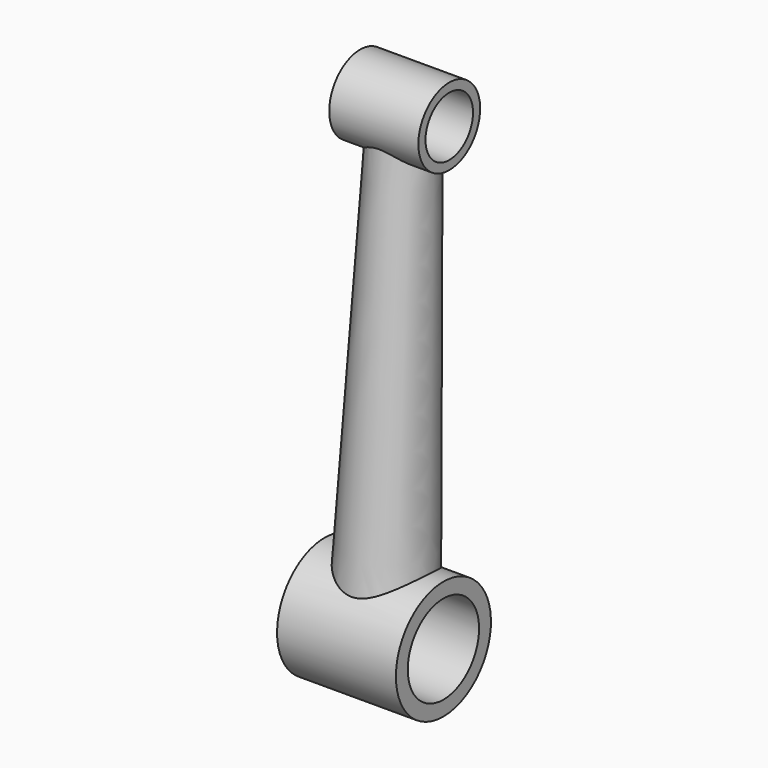
from build123d import *

# Parameters (mm, degrees)
CYLINDER006_R          = 10
CYLINDER006_DEPTH      = 100
CYLINDER007_R          = 15
CYLINDER007_DEPTH      = 100
CYLINDER004_R          = 13
CYLINDER004_DEPTH      = 30
CYLINDER005_R          = 20
CYLINDER005_DEPTH      = 40
CUT004_PLACEMENT_ANGLE = 356.673392


with BuildPart() as cylinder006:
    # Cylinder006 → Cylinder006 (new body)
    with BuildSketch(Plane(origin=(50, 0, 150), x_dir=(0, 0, 1), z_dir=(-1, 0, 0))):
        Circle(CYLINDER006_R)
    extrude(amount=CYLINDER006_DEPTH)


with BuildPart() as compound002:
    # Cylinder007 → Cylinder007 (new body)
    with BuildSketch(Plane.ZY.offset(-50)):
        Circle(CYLINDER007_R)
    extrude(amount=CYLINDER007_DEPTH)

    # Compound002: union Cylinder006
    add(cylinder006.part)


with BuildPart() as cone003:
    # Cone001002 → Cone001002 (revolve)
    with BuildSketch(Plane.XZ):
        Polygon((0, 0), (15, 0), (10, 150), (0, 150), align=None)
    revolve(axis=Axis((0, 0, 0), (0, 0, 1)))


with BuildPart() as cylinder004:
    # Cylinder004 → Cylinder004 (new body)
    with BuildSketch(Plane(origin=(15, 0, 150), x_dir=(0, 0, 1), z_dir=(-1, 0, 0))):
        Circle(CYLINDER004_R)
    extrude(amount=CYLINDER004_DEPTH)


with BuildPart() as crank:
    # Cylinder005 → Cylinder005 (new body)
    with BuildSketch(Plane.ZY.offset(-20)):
        Circle(CYLINDER005_R)
    extrude(amount=CYLINDER005_DEPTH)

    # Fusion002: union Cone003, Cylinder004
    add(cone003.part)
    add(cylinder004.part)

    # Cut004: cut Compound002
    add(compound002.part, mode=Mode.SUBTRACT)


with BuildPart() as crank_1:
    # Cut004 placement: moved
    add(crank.part.moved(Location((0, -8.704146, 33.900411))).rotate(Axis((0, -8.704146, 33.900411), (1, 0, 0)), CUT004_PLACEMENT_ANGLE))


solid = crank_1.part
